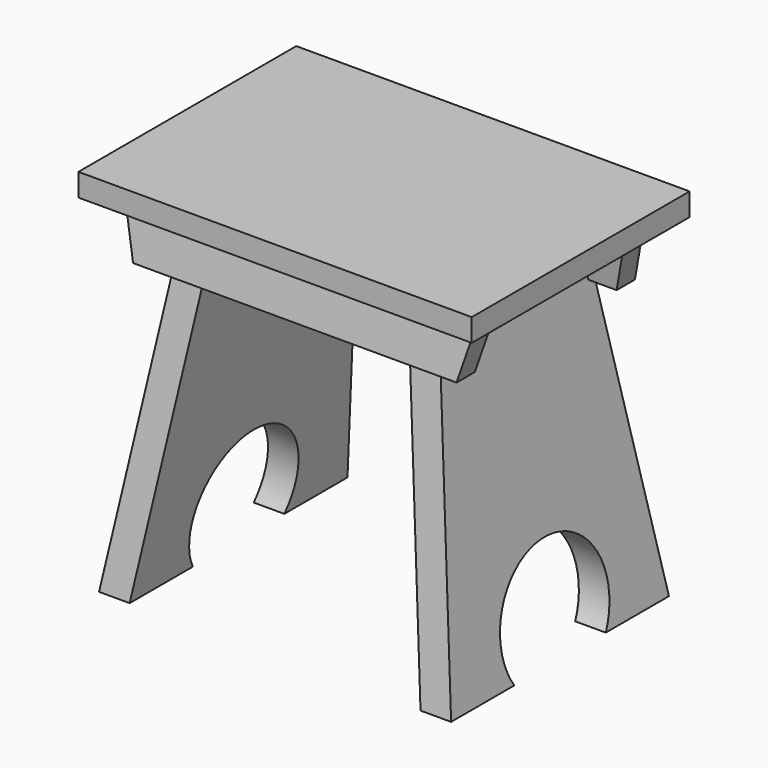
from build123d import *

# Parameters (mm, degrees)
F2_DEPTH      = 114.3
F3_DEPTH      = 114.3
F3_DEPTH_BACK = 114.3
F5_DEPTH      = 165.101
F5_DEPTH_BACK = 165.101
F7_DEPTH      = 165.1
F7_DEPTH_BACK = 165.1
F8_DEPTH      = 114.301
F8_DEPTH_BACK = 114.301


with BuildPart() as f2:
    # F0 (on Front) → F2 (new body, symmetric)
    with BuildSketch(Plane.XZ):
        Polygon((165.1, 9.525), (-165.1, 9.525), (-165.1, -9.525), (-148.480117321, -9.525), (-104.8901342862, -9.525), (-79.205680066, -9.525), (79.205680066, -9.525), (104.8901342862, -9.525), (148.480117321, -9.525), (165.1, -9.525), align=None)
    extrude(amount=F2_DEPTH, both=True)


with BuildPart() as f3:
    # F0 (on Front) → F3 (new body, two sides)
    with BuildSketch(Plane.XZ) as f3_sk:
        Polygon((-86.2986203711, -56.7867122591), (-111.9830745913, -56.7867122591), (-147.7749049664, -295.275), (-122.0904507461, -295.275), align=None)
        Polygon((-79.205680066, -9.525), (-104.8901342862, -9.525), (-111.9830745913, -56.7867122591), (-86.2986203711, -56.7867122591), align=None)
    extrude(amount=F3_DEPTH)
    extrude(f3_sk.sketch, amount=-F3_DEPTH_BACK)


with BuildPart() as f3b:
    # F0 (on Front) → F3, piece 2 (new body, two sides)
    with BuildSketch(Plane.XZ) as f3_2_sk:
        Polygon((111.9830745913, -56.7867122591), (104.8901342862, -9.525), (79.205680066, -9.525), (86.2986203711, -56.7867122591), align=None)
        Polygon((147.7749049664, -295.275), (111.9830745913, -56.7867122591), (86.2986203711, -56.7867122591), (122.0904507461, -295.275), align=None)
    extrude(amount=F3_DEPTH)
    extrude(f3_2_sk.sketch, amount=-F3_DEPTH_BACK)


with BuildPart() as f5_tool:
    # F4 (on Right) → F5 (new body, two sides)
    with BuildSketch(Plane.YZ) as f5_sk:
        Polygon((-114.3, -295.275), (-74.1404564838, -9.525), (-114.3000000004, -9.525), align=None)
        with BuildLine():
            Line((-48.0259694159, -295.275), (48.0259694159, -295.275))
            ThreePointArc((48.0259694159, -295.275), (0, -209.1790086692), (-48.0259694159, -295.275))
        make_face()
        Polygon((114.3, -295.275), (114.3, -9.525), (74.1404564838, -9.525), align=None)
    extrude(amount=-F5_DEPTH)
    extrude(f5_sk.sketch, amount=F5_DEPTH_BACK)


with BuildPart() as f3_1:
    add(f3.part)

    # F5: cut by f5_tool
    add(f5_tool.part, mode=Mode.SUBTRACT)


with BuildPart() as f3b_1:
    add(f3b.part)

    # F5: cut by f5_tool
    add(f5_tool.part, mode=Mode.SUBTRACT)


with BuildPart() as f7:
    # F6 (on Right) → F7 (new body, two sides)
    with BuildSketch(Plane.YZ) as f7_sk:
        Polygon((-67.7280513983, -9.525), (-74.1404564838, -9.525), (-80.7826569742, -56.7867122591), (-74.3702518887, -56.7867122591), align=None)
        Polygon((-80.7826569742, -56.7867122591), (-74.1404564838, -9.525), (-86.9652666548, -9.525), (-93.6074671451, -56.7867122591), align=None)
    extrude(amount=F7_DEPTH)
    extrude(f7_sk.sketch, amount=-F7_DEPTH_BACK)


with BuildPart() as f7b:
    # F6 (on Right) → F7, piece 2 (new body, two sides)
    with BuildSketch(Plane.YZ) as f7_2_sk:
        Polygon((74.1404564838, -9.525), (67.7280513983, -9.525), (74.3702518887, -56.7867122591), (80.7826569742, -56.7867122591), align=None)
        Polygon((86.9652666548, -9.525), (74.1404564838, -9.525), (80.7826569742, -56.7867122591), (93.6074671451, -56.7867122591), align=None)
    extrude(amount=F7_DEPTH)
    extrude(f7_2_sk.sketch, amount=-F7_DEPTH_BACK)


with BuildPart() as f8_tool:
    # F0 (on Front) → F8 (new body, two sides)
    with BuildSketch(Plane.XZ) as f8_sk:
        Polygon((-148.480117321, -9.525), (-165.1, -9.525), (-165.1, -56.7867122591), (-135.7862353325, -56.7867122591), align=None)
        Polygon((165.1, -56.7867122591), (165.1, -9.525), (148.480117321, -9.525), (135.7862353325, -56.7867122591), align=None)
    extrude(amount=-F8_DEPTH)
    extrude(f8_sk.sketch, amount=F8_DEPTH_BACK)


with BuildPart() as f7_1:
    add(f7.part)

    # F8: cut by f8_tool
    add(f8_tool.part, mode=Mode.SUBTRACT)

    # F11: cut F3b
    add(f3b_1.part, mode=Mode.SUBTRACT)

    # F12: cut F3
    add(f3_1.part, mode=Mode.SUBTRACT)


with BuildPart() as f7b_1:
    add(f7b.part)

    # F8: cut by f8_tool
    add(f8_tool.part, mode=Mode.SUBTRACT)

    # F9: cut F3
    add(f3_1.part, mode=Mode.SUBTRACT)

    # F10: cut F3b
    add(f3b_1.part, mode=Mode.SUBTRACT)


solid = Compound([f2.part, f3_1.part, f3b_1.part, f7_1.part, f7b_1.part])
